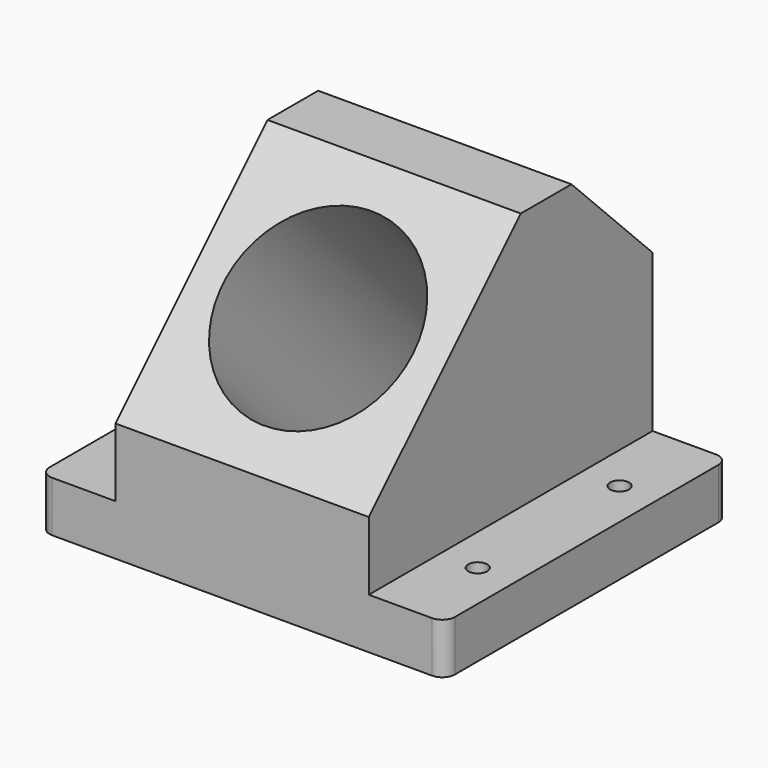
from build123d import *

# Parameters (mm, degrees)
F1_DEPTH = 100
F3_R     = 7.5
F4_DEPTH = 40
F2_R     = 75
F5_DEPTH = 1000


with BuildPart() as f1:
    # F0 (on Right) → F1 (new body, symmetric)
    with BuildSketch(Plane.YZ):
        Polygon((-140, 94), (-140, 0), (0, 0), (140, 0), (140, 94), (140, 164), (60, 244), (10, 244), align=None)
    extrude(amount=F1_DEPTH, both=True)

    # F3 (on Top) → F4 (join)
    with BuildSketch(Plane.XY):
        with BuildLine():
            Line((-150, -140), (150, -140))
            ThreePointArc((150, -140), (157.0710678119, -137.0710678119), (160, -130))
            Line((160, -130), (160, 130))
            ThreePointArc((160, 130), (157.0710678119, 137.0710678119), (150, 140))
            Line((150, 140), (-150, 140))
            ThreePointArc((-150, 140), (-157.0710678119, 137.0710678119), (-160, 130))
            Line((-160, 130), (-160, -130))
            ThreePointArc((-160, -130), (-157.0710678119, -137.0710678119), (-150, -140))
        make_face()
        with Locations((-130, -70)):
            Circle(F3_R, mode=Mode.SUBTRACT)
        with Locations((130, -70)):
            Circle(F3_R, mode=Mode.SUBTRACT)
        with Locations((-130, 70)):
            Circle(F3_R, mode=Mode.SUBTRACT)
        with Locations((130, 70)):
            Circle(F3_R, mode=Mode.SUBTRACT)
    extrude(amount=F4_DEPTH)

    # F2 (on face) → F5 (cut)
    with BuildSketch(Plane(origin=(0, -117, 117), x_dir=(1, 0, 0), z_dir=(0, -0.7071067812, 0.7071067812))):
        with Locations((0, 73.5391052434)):
            Circle(F2_R)
    extrude(amount=-F5_DEPTH, mode=Mode.SUBTRACT)


solid = f1.part
